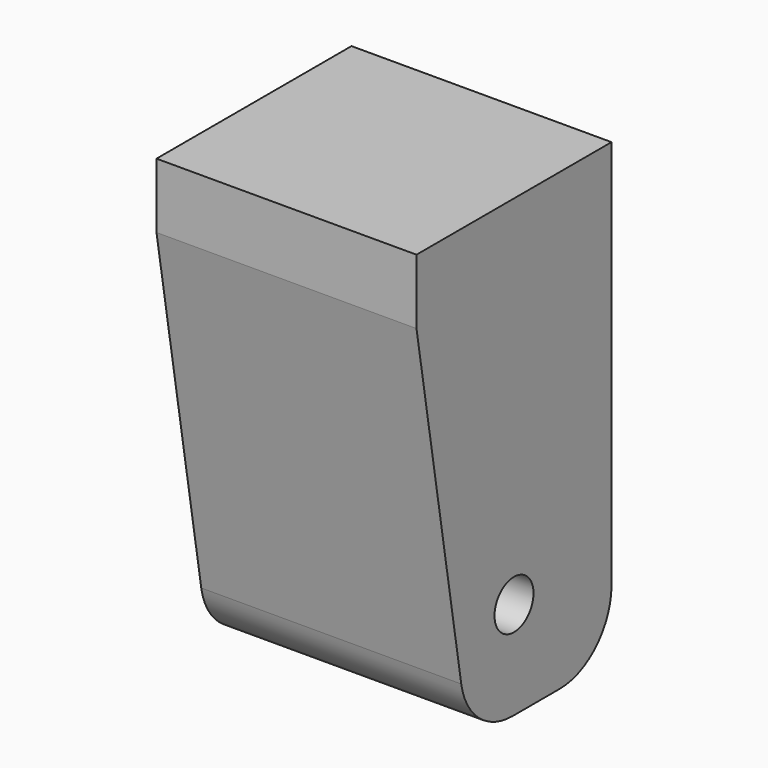
from build123d import *

# Parameters (mm, degrees)
F0_W     = 8
F0_H     = 7.5
F1_DEPTH = 14
F3_R     = 0.75
F4_DEPTH = 8
F5_SIZE2 = 12
F5_SIZE  = 2
F6_R     = 2
F7_R     = 2


with BuildPart() as f1:
    # F0 (on Top) → F1 (new body)
    with BuildSketch(Plane.XY):
        Rectangle(F0_W, F0_H)
    extrude(amount=F1_DEPTH)

    # F3 (on face) → F4 (cut)
    with BuildSketch(Plane.YZ.offset(4)):
        with Locations((0, 3)):
            Circle(F3_R)
    extrude(amount=-F4_DEPTH, mode=Mode.SUBTRACT)

    # F5
    f5_edges = [f1.edges().sort_by_distance(p)[0] for p in [
        (0, -3.75, 0),
    ]]
    f5_side = f1.faces().sort_by_distance((0, 0, 0))[0]
    chamfer(f5_edges, length=F5_SIZE, length2=F5_SIZE2, reference=f5_side)

    # F6
    f6_edges = [f1.edges().sort_by_distance(p)[0] for p in [
        (0, -1.75, 0),
    ]]
    fillet(f6_edges, radius=F6_R)

    # F7
    f7_edges = [f1.edges().sort_by_distance(p)[0] for p in [
        (0, 3.75, 0),
    ]]
    fillet(f7_edges, radius=F7_R)


solid = f1.part
